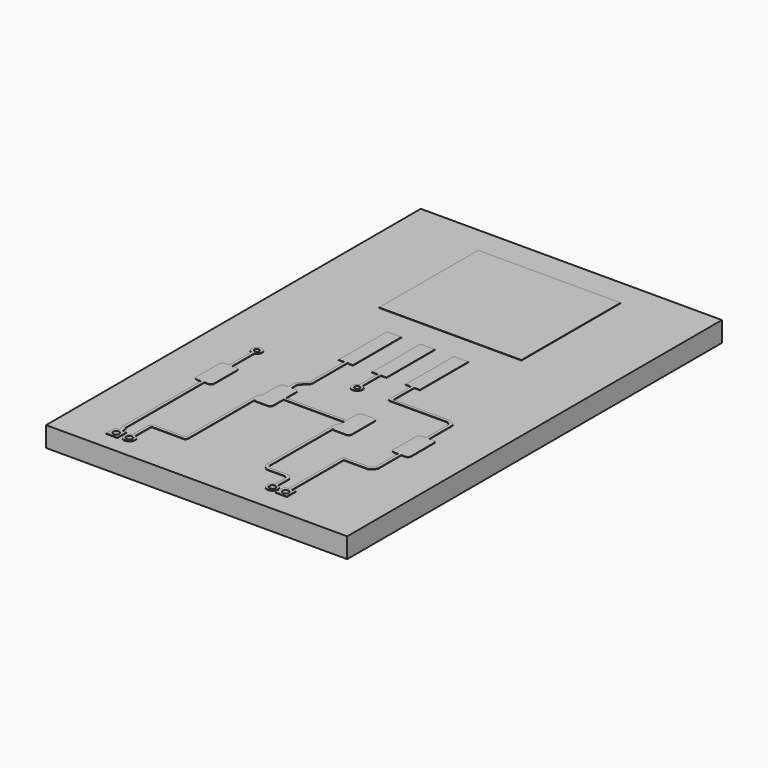
from build123d import *

# Parameters (mm, degrees)
BOARD_AREA001_W       = 35.56
BOARD_AREA001_H       = 22.86
BOARD_SOLID_DEPTH     = 1.53
HOLES_SOLID001_DEPTH  = 1.74
COPPER_AREA001_W      = 0.85
COPPER_AREA001_H      = 0.85
COPPER_SOLID001_DEPTH = 0.035
HOLES_SOLID_DEPTH     = 1.565
COPPER_AREA_W         = 9.4
COPPER_AREA_H         = 10.8
COPPER_SOLID_DEPTH    = 0.035


with BuildPart() as board_solid_f_cu:
    # board_area001 → board_solid (new body)
    with BuildSketch(Plane(origin=(204.472363, -73.643902, 0), x_dir=(0, 1, 0), z_dir=(0, 0, 1))):
        with Locations((-0.016098, 0.002363)):
            Rectangle(BOARD_AREA001_W, BOARD_AREA001_H)
        with BuildLine():
            ThreePointArc((-15.419705, -4.061276), (-15.669655, -4.311226), (-15.919605, -4.061276))
            ThreePointArc((-15.919605, -4.061276), (-15.669655, -3.811326), (-15.419705, -4.061276))
        make_face(mode=Mode.SUBTRACT)
        with BuildLine():
            ThreePointArc((-15.781642, 6.514604), (-16.031592, 6.264654), (-16.281542, 6.514604))
            ThreePointArc((-16.281542, 6.514604), (-16.031592, 6.764554), (-15.781642, 6.514604))
        make_face(mode=Mode.SUBTRACT)
        with BuildLine():
            ThreePointArc((-15.419705, -5.061276), (-15.669655, -5.311226), (-15.919605, -5.061276))
            ThreePointArc((-15.919605, -5.061276), (-15.669655, -4.811326), (-15.419705, -5.061276))
        make_face(mode=Mode.SUBTRACT)
        with BuildLine():
            ThreePointArc((-15.781642, 7.514604), (-16.031592, 7.264654), (-16.281542, 7.514604))
            ThreePointArc((-16.281542, 7.514604), (-16.031592, 7.764554), (-15.781642, 7.514604))
        make_face(mode=Mode.SUBTRACT)
        with BuildLine():
            ThreePointArc((-2.365934, 0.064151), (-2.49431, -0.187801), (-2.746262, -0.059425))
            ThreePointArc((-2.746262, -0.059425), (-2.617886, 0.192527), (-2.365934, 0.064151))
        make_face(mode=Mode.SUBTRACT)
        with BuildLine():
            ThreePointArc((-2.365934, 7.684151), (-2.49431, 7.432199), (-2.746262, 7.560575))
            ThreePointArc((-2.746262, 7.560575), (-2.617886, 7.812527), (-2.365934, 7.684151))
        make_face(mode=Mode.SUBTRACT)
    extrude(amount=BOARD_SOLID_DEPTH)


with BuildPart() as holes_solid001_f_cu_th:
    # holes_area001 → holes_solid001 (new body)
    with BuildSketch(Plane(origin=(209.533639, -89.313557, 0), x_dir=(0, 1, 0), z_dir=(0, 0, 1))):
        with BuildLine():
            ThreePointArc((0.2325, 0), (0, 0.2325), (-0.2325, 0))
            ThreePointArc((-0.2325, 0), (0, -0.2325), (0.2325, 0))
        make_face()
        with BuildLine():
            ThreePointArc((0.2325, 1), (0, 1.2325), (-0.2325, 1))
            ThreePointArc((-0.2325, 1), (0, 0.7675), (0.2325, 1))
        make_face()
        with BuildLine():
            ThreePointArc((-0.129437, 11.57588), (-0.361937, 11.80838), (-0.594437, 11.57588))
            ThreePointArc((-0.594437, 11.57588), (-0.361937, 11.34338), (-0.129437, 11.57588))
        make_face()
        with BuildLine():
            ThreePointArc((-0.129437, 12.57588), (-0.361937, 12.80838), (-0.594437, 12.57588))
            ThreePointArc((-0.594437, 12.57588), (-0.361937, 12.34338), (-0.129437, 12.57588))
        make_face()
        with BuildLine():
            ThreePointArc((13.287125, 5.120035), (13.057161, 5.237207), (12.939989, 5.007243))
            ThreePointArc((12.939989, 5.007243), (13.169953, 4.890071), (13.287125, 5.120035))
        make_face()
        with BuildLine():
            ThreePointArc((13.287125, 12.740035), (13.057161, 12.857207), (12.939989, 12.627243))
            ThreePointArc((12.939989, 12.627243), (13.169953, 12.510071), (13.287125, 12.740035))
        make_face()
    extrude(amount=HOLES_SOLID001_DEPTH)


with BuildPart() as holes_solid001_f_cu_th_1:
    # holes_solid001 placement: moved
    add(holes_solid001_f_cu_th.part.moved(Location((0, 0, -0.07))))


with BuildPart() as copper_solid001_b_cu:
    # copper_area001 → copper_solid001 (new body)
    with BuildSketch(Plane(origin=(200.66059, -76.200067, 0), x_dir=(0, 1, 0), z_dir=(0, 0, 1))):
        with BuildLine():
            ThreePointArc((-0.124933, -3.434274), (-0.325528, -3.575589), (-0.399933, -3.80941))
            ThreePointArc((-0.399933, -3.80941), (-0.282776, -4.092253), (6.7e-05, -4.20941))
            ThreePointArc((6.7e-05, -4.20941), (0.395011, -3.875453), (0.125067, -3.434274))
            Line((0.125067, -3.434274), (0.125067, 3.435454))
            ThreePointArc((0.125067, 3.435454), (0.395011, 3.876632), (6.7e-05, 4.21059))
            ThreePointArc((6.7e-05, 4.21059), (-0.394877, 3.876632), (-0.124933, 3.435454))
            Line((-0.124933, 3.435454), (-0.124933, -3.434274))
        make_face()
        with BuildLine():
            ThreePointArc((-14.150427, 3.827831), (-14.238815, 3.791219), (-14.275427, 3.702831))
            Line((-14.275427, 3.702831), (-14.238815, 3.614442))
            ThreePointArc((-14.238815, 3.614442), (-14.073262, 3.562482), (-13.900427, 3.577831))
            Line((-13.900427, 3.577831), (-13.900427, 3.277831))
            Line((-13.900427, 3.277831), (-13.050427, 3.277831))
            Line((-13.050427, 3.277831), (-13.050427, 3.577831))
            Line((-13.050427, 3.577831), (-12.800427, 3.577831))
            ThreePointArc((-12.800427, 3.577831), (-12.651613, 3.661776), (-12.567668, 3.81059))
            ThreePointArc((-12.567668, 3.81059), (-12.702825, 3.936564), (-12.852204, 3.827831))
            Line((-12.852204, 3.827831), (-13.050427, 3.827831))
            Line((-13.050427, 3.827831), (-13.050427, 4.127831))
            Line((-13.050427, 4.127831), (-13.900427, 4.127831))
            Line((-13.900427, 4.127831), (-13.900427, 3.827831))
            Line((-13.900427, 3.827831), (-14.150427, 3.827831))
        make_face()
        with BuildLine():
            ThreePointArc((-12.68849, -7.873049), (-13.11349, -7.448049), (-13.53849, -7.873049))
            ThreePointArc((-13.53849, -7.873049), (-13.11349, -8.298049), (-12.68849, -7.873049))
        make_face()
        with Locations((-13.11349, -8.873049)):
            Rectangle(COPPER_AREA001_W, COPPER_AREA001_H)
        with BuildLine():
            ThreePointArc((-13.050427, 2.702831), (-13.475427, 3.127831), (-13.900427, 2.702831))
            ThreePointArc((-13.900427, 2.702831), (-13.475427, 2.277831), (-13.050427, 2.702831))
        make_face()
    extrude(amount=COPPER_SOLID001_DEPTH)


with BuildPart() as copper_solid001_b_cu_1:
    # copper_solid001 placement: moved
    add(copper_solid001_b_cu.part.moved(Location((0, 0, -0.035))))


with BuildPart() as holes_solid_f_cu_th:
    # holes_area → holes_solid (new body)
    with BuildSketch(Plane(origin=(208.533639, -89.313557, 0), x_dir=(0, 1, 0), z_dir=(0, 0, 1))):
        with BuildLine():
            ThreePointArc((0.24995, 0), (0, 0.24995), (-0.24995, 0))
            ThreePointArc((-0.24995, 0), (0, -0.24995), (0.24995, 0))
        make_face()
        with BuildLine():
            ThreePointArc((-0.111987, 10.57588), (-0.361937, 10.82583), (-0.611887, 10.57588))
            ThreePointArc((-0.611887, 10.57588), (-0.361937, 10.32593), (-0.111987, 10.57588))
        make_face()
        with BuildLine():
            ThreePointArc((0.24995, -1), (0, -0.75005), (-0.24995, -1))
            ThreePointArc((-0.24995, -1), (0, -1.24995), (0.24995, -1))
        make_face()
        with BuildLine():
            ThreePointArc((-0.111987, 11.57588), (-0.361937, 11.82583), (-0.611887, 11.57588))
            ThreePointArc((-0.611887, 11.57588), (-0.361937, 11.32593), (-0.111987, 11.57588))
        make_face()
        with BuildLine():
            ThreePointArc((13.303721, 4.125427), (13.051769, 4.253803), (12.923393, 4.001851))
            ThreePointArc((12.923393, 4.001851), (13.175345, 3.873475), (13.303721, 4.125427))
        make_face()
        with BuildLine():
            ThreePointArc((13.303721, 11.745427), (13.051769, 11.873803), (12.923393, 11.621851))
            ThreePointArc((12.923393, 11.621851), (13.175345, 11.493475), (13.303721, 11.745427))
        make_face()
    extrude(amount=HOLES_SOLID_DEPTH)


with BuildPart() as holes_solid_f_cu_th_1:
    # holes_solid placement: moved
    add(holes_solid_f_cu_th.part.moved(Location((0, 0, -0.0175))))


with BuildPart() as coppers_drilled_f_cu:
    # copper_area → copper_solid (new body)
    with BuildSketch(Plane(origin=(203.265918, -79.690233, 0), x_dir=(0, 1, 0), z_dir=(0, 0, 1))):
        with BuildLine():
            ThreePointArc((-9.585125, 5.433159), (-10.05189, 5.728418), (-10.410261, 5.308159))
            ThreePointArc((-10.410261, 5.308159), (-10.05189, 4.8879), (-9.585125, 5.183159))
            Line((-9.585125, 5.183159), (-8.153784, 5.183159))
            Line((-8.153784, 5.183159), (-8.064767, 5.094141))
            Line((-8.064767, 5.094141), (-8.064767, 2.717338))
            ThreePointArc((-8.064767, 2.717338), (-8.002773, 2.598622), (-7.884057, 2.536628))
            Line((-7.884057, 2.536628), (-1.543208, 2.536628))
            ThreePointArc((-1.543208, 2.536628), (-1.623671, 2.454177), (-1.644767, 2.340918))
            Line((-1.644767, 2.340918), (-1.644767, 1.490918))
            ThreePointArc((-1.644767, 1.490918), (-1.571543, 1.314141), (-1.394767, 1.240918))
            Line((-1.394767, 1.240918), (-0.444767, 1.240918))
            Line((-0.444767, 1.240918), (-0.444767, -3.359082))
            Line((-0.444767, -3.359082), (-0.81799, -3.359082))
            ThreePointArc((-0.81799, -3.359082), (-0.922269, -3.236613), (-1.065477, -3.163372))
            Line((-1.065477, -3.163372), (-7.643975, -3.163372))
            Line((-7.643975, -3.163372), (-7.732363, -3.199984))
            Line((-7.732363, -3.199984), (-8.028155, -3.495776))
            Line((-8.028155, -3.495776), (-8.064767, -3.584164))
            Line((-8.064767, -3.584164), (-8.064767, -4.962305))
            Line((-8.064767, -4.962305), (-8.245182, -5.142721))
            Line((-8.245182, -5.142721), (-9.223188, -5.142721))
            ThreePointArc((-9.223188, -5.142721), (-9.689953, -4.847462), (-10.048324, -5.267721))
            ThreePointArc((-10.048324, -5.267721), (-9.689953, -5.68798), (-9.223188, -5.392721))
            Line((-9.223188, -5.392721), (-8.193406, -5.392721))
            Line((-8.193406, -5.392721), (-8.105017, -5.356109))
            Line((-8.105017, -5.356109), (-7.851378, -5.10247))
            Line((-7.851378, -5.10247), (-7.814767, -5.014082))
            Line((-7.814767, -5.014082), (-7.814767, -3.635941))
            Line((-7.814767, -3.635941), (-7.592198, -3.413372))
            Line((-7.592198, -3.413372), (-1.543208, -3.413372))
            ThreePointArc((-1.543208, -3.413372), (-1.623671, -3.495823), (-1.644767, -3.609082))
            Line((-1.644767, -3.609082), (-1.644767, -4.459082))
            ThreePointArc((-1.644767, -4.459082), (-1.571543, -4.635859), (-1.394767, -4.709082))
            Line((-1.394767, -4.709082), (0.755233, -4.709082))
            ThreePointArc((0.755233, -4.709082), (0.93201, -4.635859), (1.005233, -4.459082))
            Line((1.005233, -4.459082), (1.005233, -3.609082))
            ThreePointArc((1.005233, -3.609082), (0.93201, -3.432305), (0.755233, -3.359082))
            Line((0.755233, -3.359082), (-0.194767, -3.359082))
            Line((-0.194767, -3.359082), (-0.194767, 1.240918))
            Line((-0.194767, 1.240918), (0.755233, 1.240918))
            ThreePointArc((0.755233, 1.240918), (0.894126, 1.283051), (0.986203, 1.395247))
            ThreePointArc((0.986203, 1.395247), (1.015203, 1.592145), (1.005233, 1.790918))
            Line((1.005233, 1.790918), (1.588457, 1.790918))
            Line((1.588457, 1.790918), (2.131845, 1.24753))
            Line((2.131845, 1.24753), (2.220233, 1.210918))
            Line((2.220233, 1.210918), (5.575233, 1.210918))
            Line((5.575233, 1.210918), (5.575233, 0.785918))
            Line((5.575233, 0.785918), (10.175233, 0.785918))
            Line((10.175233, 0.785918), (10.175233, 1.885918))
            Line((10.175233, 1.885918), (5.575233, 1.885918))
            Line((5.575233, 1.885918), (5.575233, 1.460918))
            Line((5.575233, 1.460918), (2.27201, 1.460918))
            Line((2.27201, 1.460918), (1.728622, 2.004306))
            Line((1.728622, 2.004306), (1.640233, 2.040918))
            Line((1.640233, 2.040918), (1.005233, 2.040918))
            Line((1.005233, 2.040918), (1.005233, 2.340918))
            ThreePointArc((1.005233, 2.340918), (0.93201, 2.517695), (0.755233, 2.590918))
            Line((0.755233, 2.590918), (-0.81799, 2.590918))
            ThreePointArc((-0.81799, 2.590918), (-0.922269, 2.713387), (-1.065477, 2.786628))
            Line((-1.065477, 2.786628), (-7.814767, 2.786628))
            Line((-7.814767, 2.786628), (-7.814767, 5.145918))
            ThreePointArc((-7.814767, 5.145918), (-7.92115, 5.326776), (-8.102008, 5.433159))
            Line((-8.102008, 5.433159), (-9.585125, 5.433159))
        make_face()
        with BuildLine():
            Line((-10.048324, -6.692721), (-9.198324, -6.692721))
            Line((-9.198324, -6.692721), (-9.198324, -6.392721))
            Line((-9.198324, -6.392721), (-4.271128, -6.392721))
            Line((-4.271128, -6.392721), (-4.271128, -8.227721))
            Line((-4.271128, -8.227721), (-4.234516, -8.316109))
            Line((-4.234516, -8.316109), (-3.928155, -8.62247))
            Line((-3.928155, -8.62247), (-3.839767, -8.659082))
            Line((-3.839767, -8.659082), (-1.644767, -8.659082))
            Line((-1.644767, -8.659082), (-1.644767, -8.959082))
            ThreePointArc((-1.644767, -8.959082), (-1.571543, -9.135859), (-1.394767, -9.209082))
            Line((-1.394767, -9.209082), (0.755233, -9.209082))
            ThreePointArc((0.755233, -9.209082), (0.894126, -9.166949), (0.986203, -9.054753))
            ThreePointArc((0.986203, -9.054753), (1.015203, -8.857855), (1.005233, -8.659082))
            Line((1.005233, -8.659082), (3.200233, -8.659082))
            Line((3.200233, -8.659082), (3.288622, -8.62247))
            Line((3.288622, -8.62247), (3.578622, -8.33247))
            Line((3.578622, -8.33247), (3.615233, -8.244082))
            Line((3.615233, -8.244082), (3.615233, -3.869082))
            Line((3.615233, -3.869082), (5.575233, -3.869082))
            Line((5.575233, -3.869082), (5.575233, -4.294082))
            Line((5.575233, -4.294082), (10.175233, -4.294082))
            Line((10.175233, -4.294082), (10.175233, -3.194082))
            Line((10.175233, -3.194082), (5.575233, -3.194082))
            Line((5.575233, -3.194082), (5.575233, -3.619082))
            Line((5.575233, -3.619082), (3.490233, -3.619082))
            ThreePointArc((3.490233, -3.619082), (3.401845, -3.655694), (3.365233, -3.744082))
            Line((3.365233, -3.744082), (3.365233, -8.192305))
            Line((3.365233, -8.192305), (3.148457, -8.409082))
            Line((3.148457, -8.409082), (1.005233, -8.409082))
            Line((1.005233, -8.409082), (1.005233, -8.109082))
            ThreePointArc((1.005233, -8.109082), (0.93201, -7.932305), (0.755233, -7.859082))
            Line((0.755233, -7.859082), (-1.394767, -7.859082))
            ThreePointArc((-1.394767, -7.859082), (-1.533659, -7.901215), (-1.625737, -8.013411))
            ThreePointArc((-1.625737, -8.013411), (-1.654737, -8.210309), (-1.644767, -8.409082))
            Line((-1.644767, -8.409082), (-3.78799, -8.409082))
            Line((-3.78799, -8.409082), (-4.021128, -8.175944))
            Line((-4.021128, -8.175944), (-4.021128, -6.323581))
            ThreePointArc((-4.021128, -6.323581), (-4.037376, -6.201185), (-4.146128, -6.142721))
            Line((-4.146128, -6.142721), (-9.198324, -6.142721))
            Line((-9.198324, -6.142721), (-9.198324, -5.842721))
            Line((-9.198324, -5.842721), (-10.048324, -5.842721))
            Line((-10.048324, -5.842721), (-10.048324, -6.692721))
        make_face()
        with BuildLine():
            Line((-10.410261, 5.883159), (-9.560261, 5.883159))
            Line((-9.560261, 5.883159), (-9.560261, 6.183159))
            ThreePointArc((-9.560261, 6.183159), (-9.339001, 6.174362), (-9.150725, 6.290918))
            Line((-9.150725, 6.290918), (-1.644767, 6.290918))
            Line((-1.644767, 6.290918), (-1.644767, 5.990918))
            ThreePointArc((-1.644767, 5.990918), (-1.571543, 5.814141), (-1.394767, 5.740918))
            Line((-1.394767, 5.740918), (0.755233, 5.740918))
            ThreePointArc((0.755233, 5.740918), (0.894126, 5.783051), (0.986203, 5.895247))
            ThreePointArc((0.986203, 5.895247), (1.015203, 6.092145), (1.005233, 6.290918))
            Line((1.005233, 6.290918), (3.115097, 6.290918))
            ThreePointArc((3.115097, 6.290918), (3.556276, 6.020974), (3.890233, 6.415918))
            ThreePointArc((3.890233, 6.415918), (3.556276, 6.810862), (3.115097, 6.540918))
            Line((3.115097, 6.540918), (1.005233, 6.540918))
            Line((1.005233, 6.540918), (1.005233, 6.840918))
            ThreePointArc((1.005233, 6.840918), (0.93201, 7.017695), (0.755233, 7.090918))
            Line((0.755233, 7.090918), (-1.394767, 7.090918))
            ThreePointArc((-1.394767, 7.090918), (-1.533659, 7.048785), (-1.625737, 6.936589))
            ThreePointArc((-1.625737, 6.936589), (-1.654737, 6.739691), (-1.644767, 6.540918))
            Line((-1.644767, 6.540918), (-9.202502, 6.540918))
            ThreePointArc((-9.202502, 6.540918), (-9.292987, 6.502905), (-9.362037, 6.433159))
            Line((-9.362037, 6.433159), (-9.560261, 6.433159))
            Line((-9.560261, 6.433159), (-9.560261, 6.733159))
            Line((-9.560261, 6.733159), (-10.410261, 6.733159))
            Line((-10.410261, 6.733159), (-10.410261, 5.883159))
        make_face()
        with Locations((17.025233, -1.204082)):
            Rectangle(COPPER_AREA_W, COPPER_AREA_H)
        with BuildLine():
            ThreePointArc((3.865369, -1.079082), (3.424191, -0.809138), (3.090233, -1.204082))
            ThreePointArc((3.090233, -1.204082), (3.424191, -1.599026), (3.865369, -1.329082))
            Line((3.865369, -1.329082), (5.575233, -1.329082))
            Line((5.575233, -1.329082), (5.575233, -1.754082))
            Line((5.575233, -1.754082), (10.175233, -1.754082))
            Line((10.175233, -1.754082), (10.175233, -0.654082))
            Line((10.175233, -0.654082), (5.575233, -0.654082))
            Line((5.575233, -0.654082), (5.575233, -1.079082))
            Line((5.575233, -1.079082), (3.865369, -1.079082))
        make_face()
    extrude(amount=COPPER_SOLID_DEPTH)


with BuildPart() as coppers_drilled_f_cu_1:
    # copper_solid placement: moved
    add(coppers_drilled_f_cu.part.moved(Location((0, 0, 1.53))))

    # coppers_fuse: union copper_solid001#B.Cu, holes_solid#F.Cu#th
    add(copper_solid001_b_cu_1.part)
    add(holes_solid_f_cu_th_1.part)

    # coppers_drilled: cut holes_solid001#F.Cu#th
    add(holes_solid001_f_cu_th_1.part, mode=Mode.SUBTRACT)


solid = Compound([board_solid_f_cu.part, coppers_drilled_f_cu_1.part])
